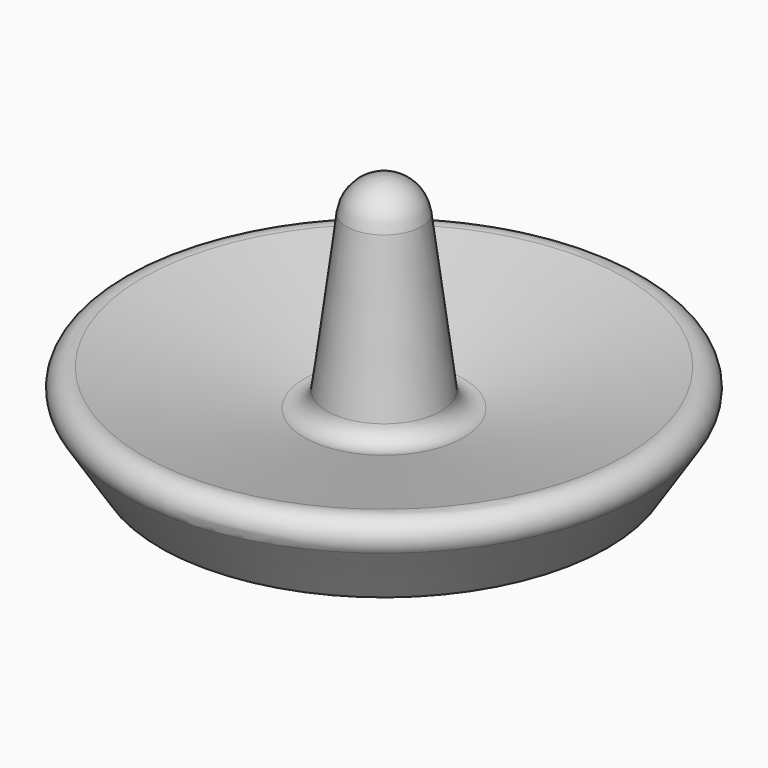
from build123d import *


with BuildPart() as f1:
    # F0 (on Front) → F1 (revolve)
    with BuildSketch(Plane.XZ):
        with BuildLine():
            Line((0, 0), (0, 34.052009))
            ThreePointArc((0, 34.052009), (-3.303546, 32.805219), (-4.95956, 29.686643))
            Line((-4.95956, 29.686643), (-7.628009, 8.833156))
            ThreePointArc((-7.628009, 8.833156), (-8.674257, 7.102306), (-10.658719, 6.711934))
            Line((-10.658719, 6.711934), (-32.245757, 11.589013))
            ThreePointArc((-32.245757, 11.589013), (-34.842641, 10.587163), (-34.903359, 7.804391))
            Line((-34.903359, 7.804391), (-29.91665, 0))
            Line((-29.91665, 0), (0, 0))
        make_face()
    revolve(axis=Axis((0, 0, 17.026005), (0, 0, 1)))


solid = f1.part
